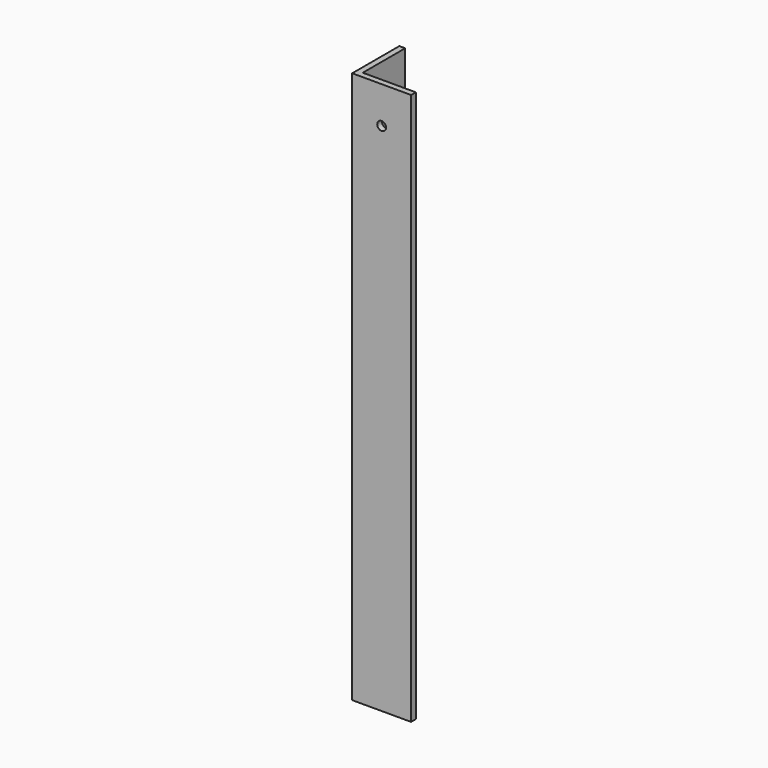
from build123d import *

# Parameters (mm, degrees)
CYLINDER002_R     = 6
CYLINDER002_DEPTH = 900
CYLINDER_R        = 6
CYLINDER_DEPTH    = 1300
BOX001_W          = 80
BOX001_H          = 80
BOX001_DEPTH      = 750
BOX_W             = 80
BOX_H             = 80
BOX_DEPTH         = 750


with BuildPart() as cylinder002:
    # Cylinder002 → Cylinder002 (new body)
    with BuildSketch(Plane(origin=(40, -10, 700), x_dir=(1, 0, 0), z_dir=(0, 1, 0))):
        Circle(CYLINDER002_R)
    extrude(amount=CYLINDER002_DEPTH)


with BuildPart() as cylinder:
    # Cylinder → Cylinder (new body)
    with BuildSketch(Plane(origin=(-10, 40, 720), x_dir=(0, 0, -1), z_dir=(1, 0, 0))):
        Circle(CYLINDER_R)
    extrude(amount=CYLINDER_DEPTH)


with BuildPart() as cube001:
    # Box001 → Box001 (new body)
    with BuildSketch(Plane(origin=(8, 8, 0), x_dir=(1, 0, 0), z_dir=(0, 0, 1))):
        with Locations((40, 40)):
            Rectangle(BOX001_W, BOX001_H)
    extrude(amount=BOX001_DEPTH)


with BuildPart() as cut006:
    # Box → Box (new body)
    with BuildSketch(Plane.XY):
        with Locations((40, 40)):
            Rectangle(BOX_W, BOX_H)
    extrude(amount=BOX_DEPTH)

    # Cut: cut Cube001
    add(cube001.part, mode=Mode.SUBTRACT)

    # Cut004: cut Cylinder
    add(cylinder.part, mode=Mode.SUBTRACT)

    # Cut006: cut Cylinder002
    add(cylinder002.part, mode=Mode.SUBTRACT)


solid = cut006.part
